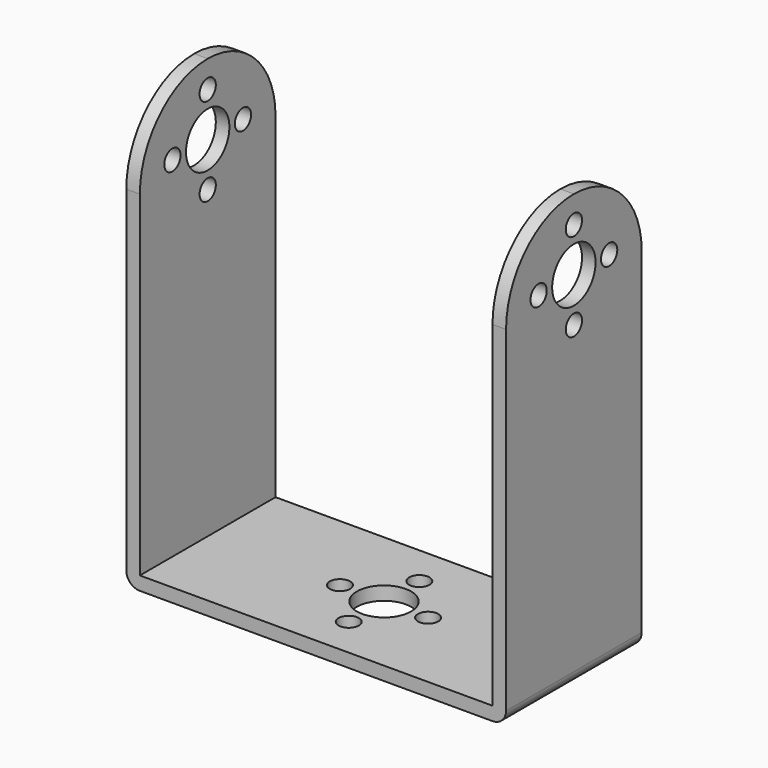
from build123d import *

# Parameters (mm, degrees)
SKETCH_W        = 56
SKETCH_H        = 25
PAD_DEPTH       = 2
SKETCH001_W     = 2
SKETCH001_H     = 25
PAD001_DEPTH    = 62
SKETCH002_R     = 4
SKETCH002_R_2   = 1.5
POCKET_DEPTH    = 56.001
FILLET_R        = 12.499
FILLET001_R     = 1.99
SKETCH003_R     = 4
SKETCH003_R_2   = 1.5
POCKET001_DEPTH = 5


with BuildPart() as part:
    # Sketch → Pad (new body)
    with BuildSketch(Plane.XY):
        Rectangle(SKETCH_W, SKETCH_H)
    extrude(amount=PAD_DEPTH)

    # Sketch001 (on Face6 of Pad) → Pad001 (join)
    with BuildSketch(Plane.XY.offset(2)):
        with Locations((27, 0)):
            Rectangle(SKETCH001_W, SKETCH001_H)
        with Locations((-27, 0)):
            Rectangle(SKETCH001_W, SKETCH001_H)
    extrude(amount=PAD001_DEPTH)

    # Sketch002 (on Face10 of Pad001) → Pocket (cut, through all)
    with BuildSketch(Plane.YZ.offset(28)):
        with Locations((0, 53.5)):
            Circle(SKETCH002_R)
        with Locations((0, 47)):
            Circle(SKETCH002_R_2)
        with Locations((6.5, 53.5)):
            Circle(SKETCH002_R_2)
        with Locations((-6.5, 53.5)):
            Circle(SKETCH002_R_2)
        with Locations((0, 60)):
            Circle(SKETCH002_R_2)
    extrude(amount=-POCKET_DEPTH, mode=Mode.SUBTRACT)

    # Fillet
    fillet_edges = [part.edges().sort_by_distance(p)[0] for p in [
        (-27, -12.5, 64),
        (-27, 12.5, 64),
        (27, -12.5, 64),
        (27, 12.5, 64),
    ]]
    fillet(fillet_edges, radius=FILLET_R)

    # Fillet001
    fillet001_edges = [part.edges().sort_by_distance(p)[0] for p in [
        (28, 0, 0),
        (-28, 0, 0),
    ]]
    fillet(fillet001_edges, radius=FILLET001_R)

    # Sketch003 (on Face6 of Fillet001) → Pocket001 (cut)
    with BuildSketch(Plane.XY.offset(2)):
        Circle(SKETCH003_R)
        with Locations((6.5, 0)):
            Circle(SKETCH003_R_2)
        with Locations((-6.5, 0)):
            Circle(SKETCH003_R_2)
        with Locations((0, -6.5)):
            Circle(SKETCH003_R_2)
        with Locations((0, 6.5)):
            Circle(SKETCH003_R_2)
    extrude(amount=-POCKET001_DEPTH, mode=Mode.SUBTRACT)


solid = part.part
